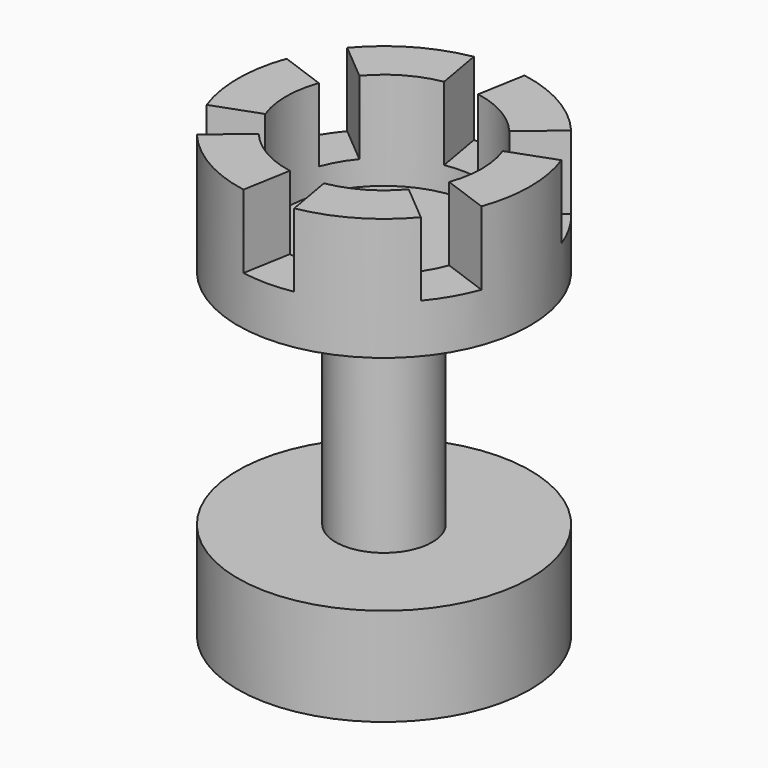
from build123d import *

# Parameters (mm, degrees)
F2_R     = 20
F3_DEPTH = 20
F5_DEPTH = 15


with BuildPart() as f1:
    # F0 (on Front) → F1 (revolve)
    with BuildSketch(Plane.XZ):
        Polygon((29.861114, 20), (9.861114, 20), (9.861114, 65.476191), (29.861114, 65.476191), (29.861114, 90.476191), (0, 90.476191), (0, 0), (29.861114, 0), align=None)
    revolve(axis=Axis((0, 0, 45.238095), (0, 0, -1)))

    # F2 (on face) → F3 (cut)
    with BuildSketch(Plane.XY.offset(90.476191)):
        Circle(F2_R)
    extrude(amount=-F3_DEPTH, mode=Mode.SUBTRACT)

    # F4 (on face) → F5 (cut)
    with BuildSketch(Plane.XY.offset(90.476191)):
        with BuildLine():
            ThreePointArc((-3.013717, 17.091636), (0, 17.355302), (3.013717, 17.091636))
            Line((3.013717, 17.091636), (6.241417, 35.396835))
            ThreePointArc((6.241417, 35.396835), (0, 35.942888), (-6.241417, 35.396835))
            Line((-6.241417, 35.396835), (-3.013717, 17.091636))
        make_face()
        with BuildLine():
            Line((-33.775267, 12.293192), (-16.308649, 5.935863))
            ThreePointArc((-16.308649, 5.935863), (-15.030132, 8.677651), (-13.294933, 11.155773))
            Line((-13.294933, 11.155773), (-27.53385, 23.103643))
            ThreePointArc((-27.53385, 23.103643), (-31.127454, 17.971444), (-33.775267, 12.293192))
        make_face()
        with BuildLine():
            Line((-27.53385, -23.103643), (-13.294933, -11.155773))
            ThreePointArc((-13.294933, -11.155773), (-15.030132, -8.677651), (-16.308649, -5.935863))
            Line((-16.308649, -5.935863), (-33.775267, -12.293192))
            ThreePointArc((-33.775267, -12.293192), (-31.127454, -17.971444), (-27.53385, -23.103643))
        make_face()
        with BuildLine():
            Line((6.241417, -35.396835), (3.013717, -17.091636))
            ThreePointArc((3.013717, -17.091636), (0, -17.355302), (-3.013717, -17.091636))
            Line((-3.013717, -17.091636), (-6.241417, -35.396835))
            ThreePointArc((-6.241417, -35.396835), (0, -35.942888), (6.241417, -35.396835))
        make_face()
        with BuildLine():
            Line((33.775267, -12.293192), (16.308649, -5.935863))
            ThreePointArc((16.308649, -5.935863), (15.030132, -8.677651), (13.294933, -11.155773))
            Line((13.294933, -11.155773), (27.53385, -23.103643))
            ThreePointArc((27.53385, -23.103643), (31.127454, -17.971444), (33.775267, -12.293192))
        make_face()
        with BuildLine():
            Line((27.53385, 23.103643), (13.294933, 11.155773))
            ThreePointArc((13.294933, 11.155773), (15.030132, 8.677651), (16.308649, 5.935863))
            Line((16.308649, 5.935863), (33.775267, 12.293192))
            ThreePointArc((33.775267, 12.293192), (31.127454, 17.971444), (27.53385, 23.103643))
        make_face()
    extrude(amount=-F5_DEPTH, mode=Mode.SUBTRACT)


solid = f1.part
